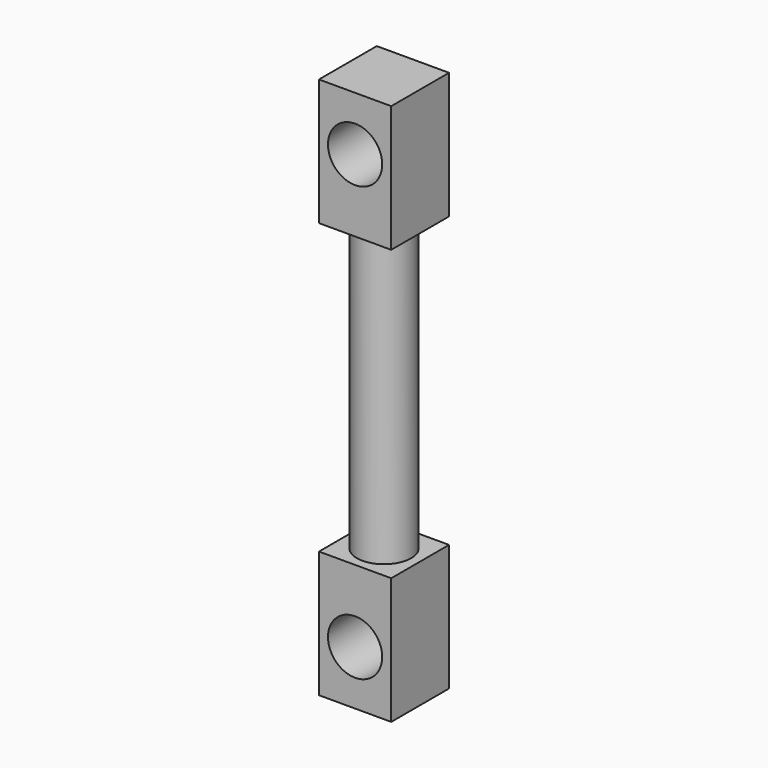
from build123d import *

# Parameters (mm, degrees)
F0_R     = 7.5
F1_DEPTH = 150
F4_W     = 20
F4_H     = 20
F5_DEPTH = 35
F6_W     = 20
F6_H     = 20
F7_DEPTH = 35
F8_R     = 7.5
F9_DEPTH = 20


with BuildPart() as f1:
    # F0 (on Top) → F1 (new body)
    with BuildSketch(Plane.XY):
        Circle(F0_R)
    extrude(amount=F1_DEPTH)

    # F4 (on offset) → F5 (join)
    with BuildSketch(Plane.XY.offset(35)):
        Rectangle(F4_W, F4_H)
    extrude(amount=-F5_DEPTH)

    # F6 (on offset) → F7 (join)
    with BuildSketch(Plane.XY.offset(115)):
        Rectangle(F6_W, F6_H)
    extrude(amount=F7_DEPTH)

    # F8 (on face) → F9 (cut, through all)
    with BuildSketch(Plane.XZ.offset(10)):
        with Locations((0, 135)):
            Circle(F8_R)
        with Locations((0, 15)):
            Circle(F8_R)
    extrude(amount=-F9_DEPTH, mode=Mode.SUBTRACT)


solid = f1.part
